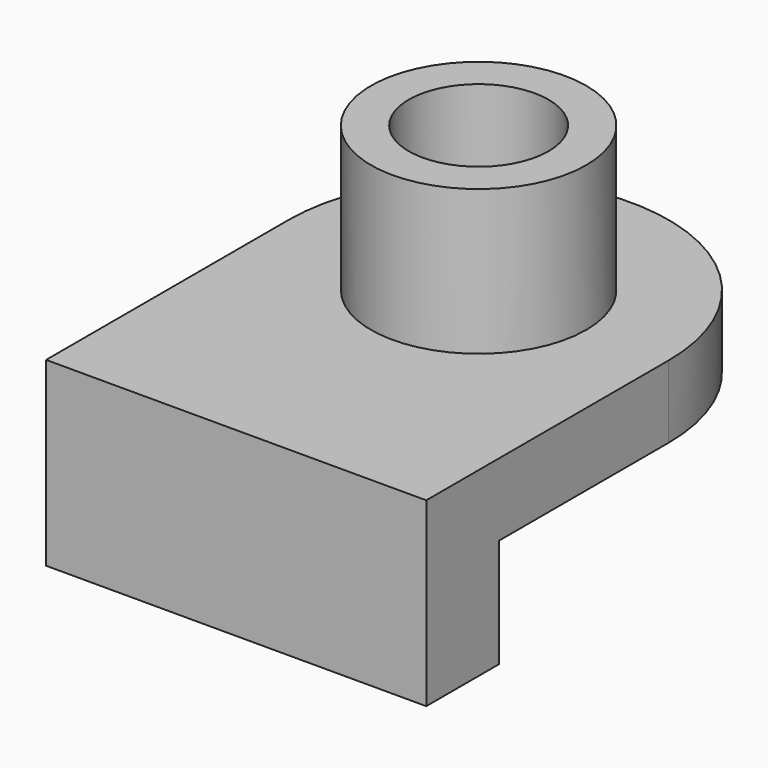
from build123d import *

# Parameters (mm, degrees)
F0_W     = 52.437798
F0_H     = 12.502962
F1_DEPTH = 15
F2_W     = 52.437798
F2_H     = 29.297988
F2_H_2   = 12.502962
F3_DEPTH = 10
F5_DEPTH = 10
F6_R     = 14.846163
F7_DEPTH = 20
F8_R     = 9.639432
F9_DEPTH = 45.001


with BuildPart() as f1:
    # F0 (on Top) → F1 (new body)
    with BuildSketch(Plane.XY):
        Rectangle(F0_W, F0_H)
    extrude(amount=F1_DEPTH)

    # F2 (on face) → F3 (join)
    with BuildSketch(Plane.XY.offset(15)):
        with Locations((0, 20.900475)):
            Rectangle(F2_W, F2_H)
        Rectangle(F2_W, F2_H_2)
    extrude(amount=F3_DEPTH)

    # F4 (on face) → F5 (join)
    with BuildSketch(Plane.XY.offset(25)):
        with BuildLine():
            Line((-26.218899, 35.549469), (26.218899, 35.549469))
            ThreePointArc((26.218899, 35.549469), (0, 61.768368), (-26.218899, 35.549469))
        make_face()
    extrude(amount=-F5_DEPTH)

    # F6 (on face) → F7 (join)
    with BuildSketch(Plane.XY.offset(25)):
        with Locations((0, 35.549469)):
            Circle(F6_R)
    extrude(amount=F7_DEPTH)

    # F8 (on face) → F9 (cut, through all)
    with BuildSketch(Plane.XY.offset(45)):
        with Locations((0, 35.549469)):
            Circle(F8_R)
    extrude(amount=-F9_DEPTH, mode=Mode.SUBTRACT)


solid = f1.part
